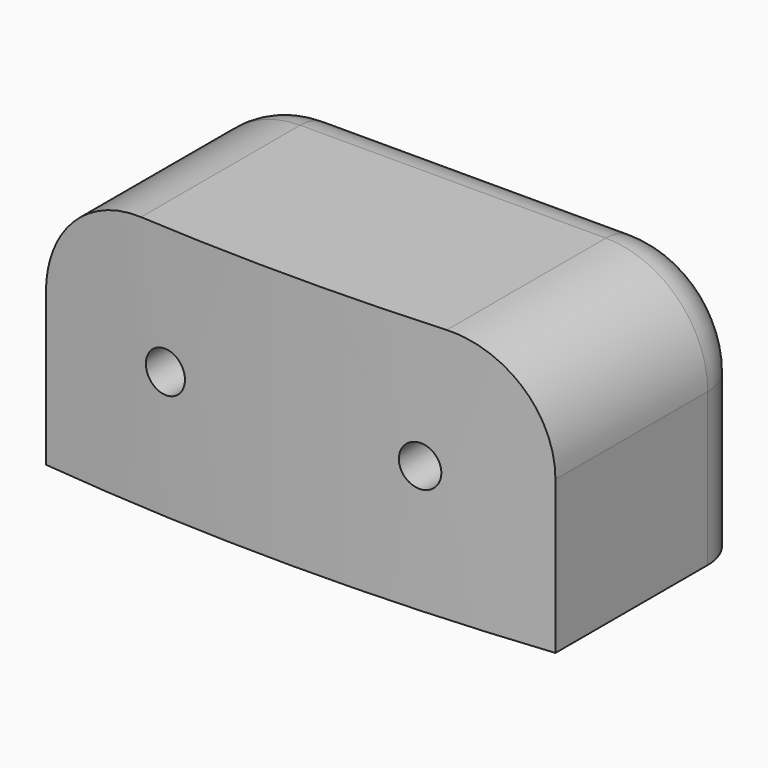
from build123d import *

# Parameters (mm, degrees)
CYLINDER011_R     = 0.8
CYLINDER011_DEPTH = 20
CYLINDER010_R     = 0.8
CYLINDER010_DEPTH = 20
BOX002_W          = 20
BOX002_H          = 10
BOX002_DEPTH      = 10
CYLINDER009_R     = 95
CYLINDER009_DEPTH = 10
FILLET006_R       = 4
FILLET007_R       = 2


with BuildPart() as screw004:
    # Cylinder011 → Cylinder011 (new body)
    with BuildSketch(Plane(origin=(5, -100, 5), x_dir=(1, 0, 0), z_dir=(0, 1, 0))):
        Circle(CYLINDER011_R)
    extrude(amount=CYLINDER011_DEPTH)


with BuildPart() as fusion005:
    # Cylinder010 → Cylinder010 (new body)
    with BuildSketch(Plane(origin=(-5, -100, 5), x_dir=(1, 0, 0), z_dir=(0, 1, 0))):
        Circle(CYLINDER010_R)
    extrude(amount=CYLINDER010_DEPTH)

    # Fusion005: union Screw004
    add(screw004.part)


with BuildPart() as cube001:
    # Box002 → Box002 (new body)
    with BuildSketch(Plane(origin=(-10, -95, 0), x_dir=(1, 0, 0), z_dir=(0, 0, 1))):
        with Locations((10, 5)):
            Rectangle(BOX002_W, BOX002_H)
    extrude(amount=BOX002_DEPTH)


with BuildPart() as obj1:
    # Cylinder009 → Cylinder009 (new body)
    with BuildSketch(Plane.XY):
        Circle(CYLINDER009_R)
    extrude(amount=CYLINDER009_DEPTH)

    # Common: intersect Cube001
    add(cube001.part, mode=Mode.INTERSECT)

    # Fillet006
    fillet006_edges = [obj1.edges().sort_by_distance(p)[0] for p in [
        (-10, -89.736109, 10),
        (10, -89.736109, 10),
    ]]
    fillet(fillet006_edges, radius=FILLET006_R)

    # Fillet007
    fillet007_edges = [obj1.edges().sort_by_distance(p)[0] for p in [
        (0, -85, 10),
    ]]
    fillet(fillet007_edges, radius=FILLET007_R)

    # Cut002: cut Fusion005
    add(fusion005.part, mode=Mode.SUBTRACT)


with BuildPart() as obj1_1:
    # Cut002 placement: moved
    add(obj1.part.moved(Location((0, 0, 2))))


solid = obj1_1.part
